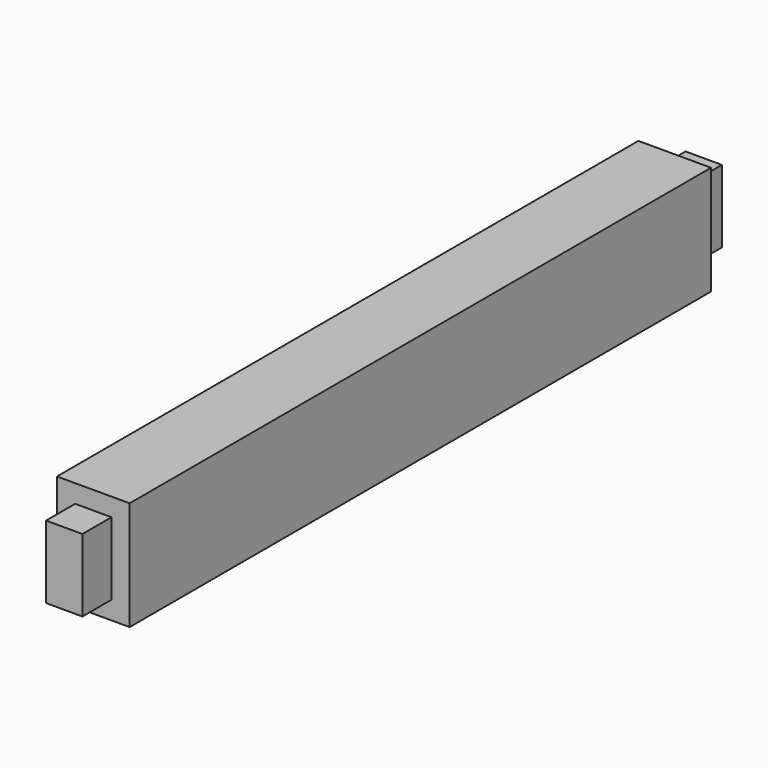
from build123d import *

# Parameters (mm, degrees)
F0_W     = 20
F0_H     = 30
F1_DEPTH = 100
F2_W     = 10
F2_H     = 20
F3_DEPTH = 10


with BuildPart() as f1:
    # F0 (on Front) → F1 (new body)
    with BuildSketch(Plane.XZ):
        Rectangle(F0_W, F0_H)
    extrude(amount=F1_DEPTH)

    # F2 (on face) → F3 (join)
    with BuildSketch(Plane.XZ.offset(100)):
        Rectangle(F2_W, F2_H)
    extrude(amount=F3_DEPTH)

    # F4: F1 across plane


with BuildPart() as f1_1:
    add(f1.part)
    add(f1.part.mirror(Plane.XZ))


solid = f1_1.part
